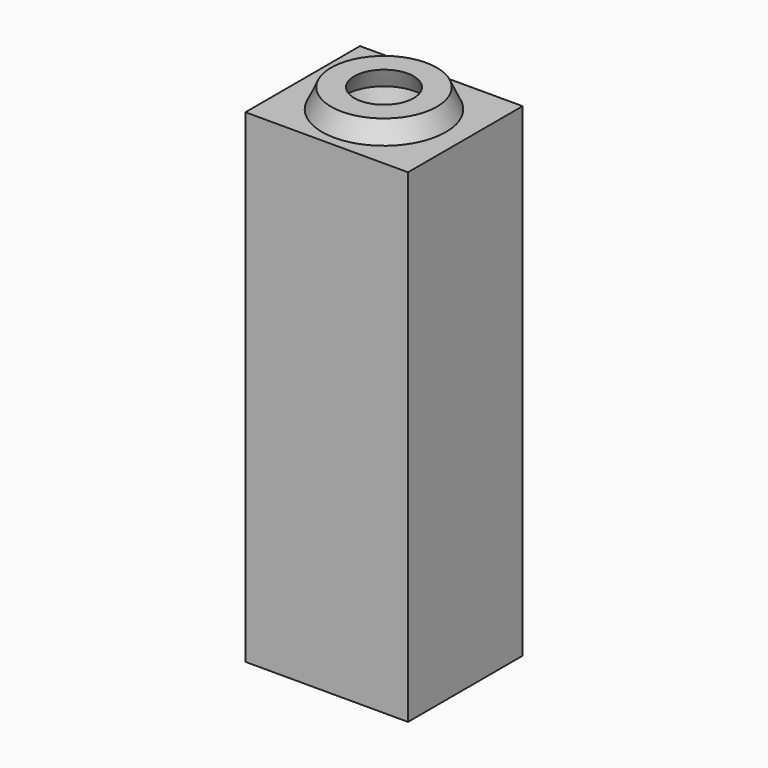
from build123d import *

# Parameters (mm, degrees)
F0_W     = 8
F0_H     = 30
F2_DEPTH = 9.25
F4_DEPTH = 32.5
F5_W     = 17.5
F5_H     = 15
F6_DEPTH = 30


with BuildPart() as f1:
    # F0 (on Front) → F1 (revolve)
    with BuildSketch(Plane.XZ):
        Polygon((21.4039260229, 59.6839201814), (25.9981002354, 34.6839201814), (24.4039260229, 59.6839201814), align=None)
        Polygon((24.4039260229, 59.6839201814), (25.9981002354, 67.1839201814), (22.9981002354, 67.1839201814), (21.4039260229, 59.6839201814), align=None)
        Polygon((22.9981002354, 67.1839201814), (25.9981002354, 67.1839201814), (24.83233109, 69.6839201814), (22.9981002354, 69.6839201814), align=None)
        Polygon((21.83233109, 69.6839201814), (22.9981002354, 67.1839201814), (22.9981002354, 69.6839201814), align=None)
        Polygon((24.4039260229, 59.6839201814), (25.9981002354, 34.6839201814), (25.9981002354, 67.1839201814), align=None)
    revolve(axis=Axis((17.9981002354, 0, 37.1839201814), (0, 0, 1)))

    # F0 (on Front) → F2 (join, symmetric)
    with BuildSketch(Plane.XZ):
        Polygon((7.4981002354, 4.6839201814), (9.9981002354, 4.6839201814), (9.9981002354, 34.6839201814), (9.9981002354, 67.1839201814), (7.4981002354, 67.1839201814), align=None)
        Polygon((25.9981002354, 34.6839201814), (25.9981002354, 4.6839201814), (28.4981002354, 4.6839201814), (28.4981002354, 67.1839201814), (25.9981002354, 67.1839201814), align=None)
        with Locations((13.9981002354, 19.6839201814)):
            Rectangle(F0_W, F0_H)
        with Locations((21.9981002354, 19.6839201814)):
            Rectangle(F0_W, F0_H)
    extrude(amount=F2_DEPTH, both=True)

    # F3 (on face) → F4 (join, through all)
    with BuildSketch(Plane.XY.offset(34.6839201814)):
        with BuildLine():
            Line((25.9981002354, -9.25), (25.9981002354, 0))
            ThreePointArc((25.9981002354, 0), (17.998100241, -8), (9.9981002354, -1.11e-08))
            Line((9.9981002354, -1.11e-08), (9.9981002354, -9.25))
            Line((9.9981002354, -9.25), (25.9981002354, -9.25))
        make_face()
        with BuildLine():
            ThreePointArc((9.9981002354, -1.11e-08), (17.9981002299, 8), (25.9981002354, 0))
            Line((25.9981002354, 0), (25.9981002354, 9.25))
            Line((25.9981002354, 9.25), (9.9981002354, 9.25))
            Line((9.9981002354, 9.25), (9.9981002354, -1.11e-08))
        make_face()
    extrude(amount=F4_DEPTH)

    # F5 (on face) → F6 (cut)
    with BuildSketch(Plane(origin=(0, 0, 4.6839201814), x_dir=(1, 0, 0), z_dir=(0, 0, -1))):
        with Locations((17.9981002354, 0)):
            Rectangle(F5_W, F5_H)
    extrude(amount=-F6_DEPTH, mode=Mode.SUBTRACT)


solid = f1.part
